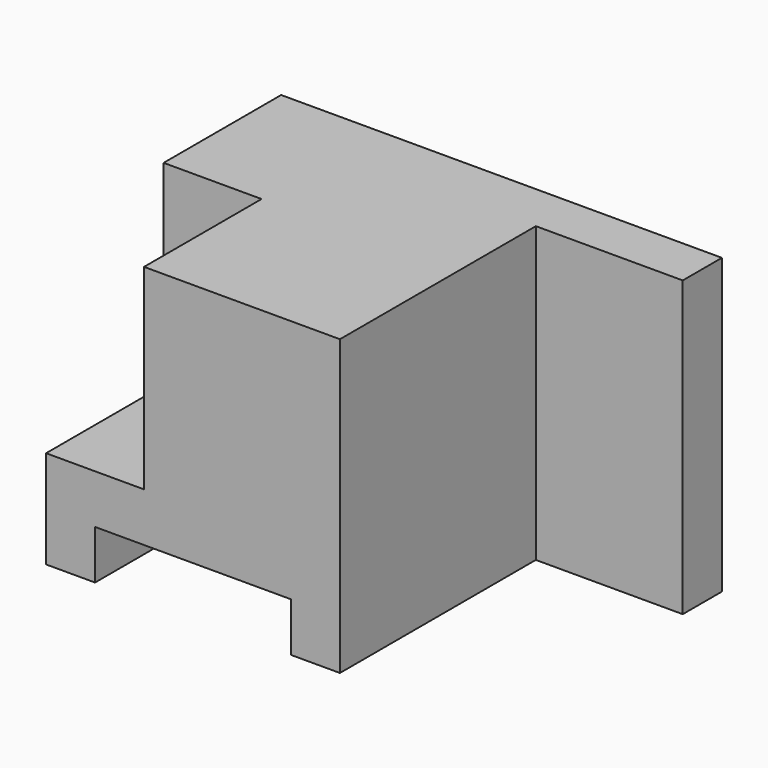
from build123d import *

# Parameters (mm, degrees)
F1_DEPTH = 60
F0_W     = 20
F0_H     = 40
F0_W_2   = 30
F0_H_2   = 60
F0_W_3   = 40
F0_H_3   = 10
F2_DEPTH = 10
F3_DEPTH = 30


with BuildPart() as f1:
    # F0 (on Front) → F1 (new body)
    with BuildSketch(Plane.XZ):
        Polygon((14.700101, 32.967453), (-25.299899, 32.967453), (-25.299899, -7.032547), (-45.299899, -7.032547), (-45.299899, -27.032547), (-35.299899, -27.032547), (-35.299899, -17.032547), (4.700101, -17.032547), (4.700101, -27.032547), (14.700101, -27.032547), align=None)
    extrude(amount=F1_DEPTH)

    # F0 (on Front) → F2 (join)
    with BuildSketch(Plane.XZ):
        with Locations((-35.299899, 12.967453)):
            Rectangle(F0_W, F0_H)
        Polygon((14.700101, 32.967453), (-25.299899, 32.967453), (-25.299899, -7.032547), (-45.299899, -7.032547), (-45.299899, -27.032547), (-35.299899, -27.032547), (-35.299899, -17.032547), (4.700101, -17.032547), (4.700101, -27.032547), (14.700101, -27.032547), align=None)
        with Locations((29.700101, 2.967453)):
            Rectangle(F0_W_2, F0_H_2)
        with Locations((-15.299899, -22.032547)):
            Rectangle(F0_W_3, F0_H_3)
    extrude(amount=F2_DEPTH)

    # F0 (on Front) → F3 (join)
    with BuildSketch(Plane.XZ):
        with Locations((-35.299899, 12.967453)):
            Rectangle(F0_W, F0_H)
    extrude(amount=F3_DEPTH)


solid = f1.part
